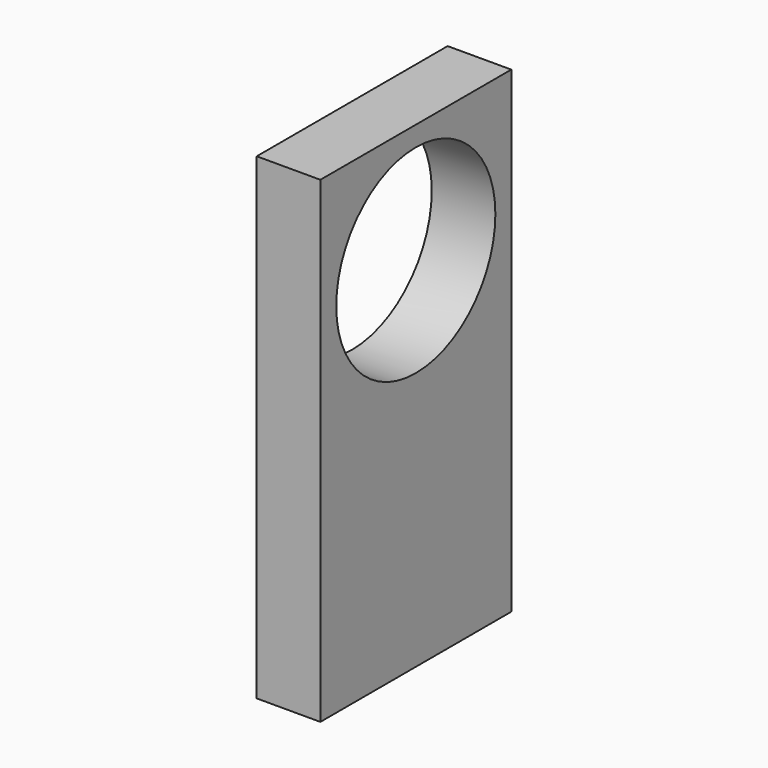
from build123d import *

# Parameters (mm, degrees)
CYLINDER018_R     = 1.65
CYLINDER018_DEPTH = 20
CYLINDER019_R     = 1.65
CYLINDER019_DEPTH = 20
CYLINDER011_R     = 12.5
CYLINDER011_DEPTH = 10
BOX002_W          = 8
BOX002_H          = 30
BOX002_DEPTH      = 60


with BuildPart() as zylinder018:
    # Cylinder018 → Cylinder018 (new body)
    with BuildSketch(Plane(origin=(4, 38, 10), x_dir=(1, 0, 0), z_dir=(0, 0, 1))):
        Circle(CYLINDER018_R)
    extrude(amount=CYLINDER018_DEPTH)


with BuildPart() as compound003:
    # Cylinder019 → Cylinder019 (new body)
    with BuildSketch(Plane(origin=(4, 57, 10), x_dir=(1, 0, 0), z_dir=(0, 0, 1))):
        Circle(CYLINDER019_R)
    extrude(amount=CYLINDER019_DEPTH)

    # Compound003: union Zylinder018
    add(zylinder018.part)


with BuildPart() as zylinder011:
    # Cylinder011 → Cylinder011 (new body)
    with BuildSketch(Plane(origin=(0, 47.5, 60), x_dir=(0, 0, -1), z_dir=(1, 0, 0))):
        Circle(CYLINDER011_R)
    extrude(amount=CYLINDER011_DEPTH)


with BuildPart() as cameraholder:
    # Box002 → Box002 (new body)
    with BuildSketch(Plane(origin=(0, 32.5, 15), x_dir=(1, 0, 0), z_dir=(0, 0, 1))):
        with Locations((4, 15)):
            Rectangle(BOX002_W, BOX002_H)
    extrude(amount=BOX002_DEPTH)

    # Cut003: cut Zylinder011
    add(zylinder011.part, mode=Mode.SUBTRACT)

    # Cut007: cut Compound003
    add(compound003.part, mode=Mode.SUBTRACT)


solid = cameraholder.part
